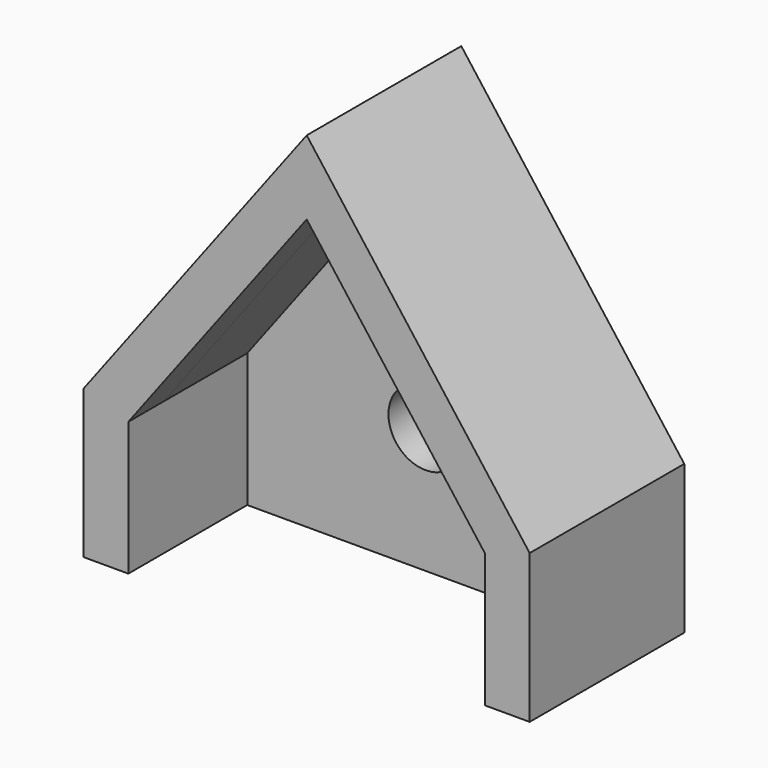
from build123d import *

# Parameters (mm, degrees)
F1_DEPTH = 10
F2_DEPTH = 3
F3_D     = 5
F3_DEPTH = 12
F3_TIP   = 1.5021515476


with BuildPart() as f1:
    # F0 (on Front) → F1 (new body)
    with BuildSketch(Plane.XZ):
        Polygon((0, 19.8648640182), (-15, 0), (-15, -10), (-12, -10), (-12, -1.0054318503), (0, 14.8864593642), (12, -1.0054318503), (12, -10), (15, -10), (15, 0), align=None)
    extrude(amount=F1_DEPTH)

    # F0 (on Front) + F1_face (on face) → F2 (join)
    with BuildSketch(Plane.XZ):
        Polygon((-12, -1.0054318503), (-12, -10), (12, -10), (12, -1.0054318503), (0, 14.8864593642), align=None)
    with BuildSketch(Plane(origin=(0, -10, 4.4015692683), x_dir=(1, 0, 0), z_dir=(0, -1, 0))):
        Polygon((0, 15.4632947499), (-15, -4.4015692683), (-15, -14.4015692683), (-12, -14.4015692683), (-12, -5.4070011186), (0, 10.484890096), (12, -5.4070011186), (12, -14.4015692683), (15, -14.4015692683), (15, -4.4015692683), align=None)
    extrude(amount=F2_DEPTH)

    # F3
    with Locations(Plane(origin=(0, 0, 0), x_dir=(1, 0, 0), z_dir=(0, 1, 0))):
        with Locations((0, 1.5340909595)):
            Hole(F3_D / 2, depth=F3_DEPTH)
            with Locations((0, 0, -(F3_DEPTH + F3_TIP / 2))):  # 118° drill point
                Cone(0, F3_D / 2, F3_TIP, mode=Mode.SUBTRACT)


solid = f1.part
